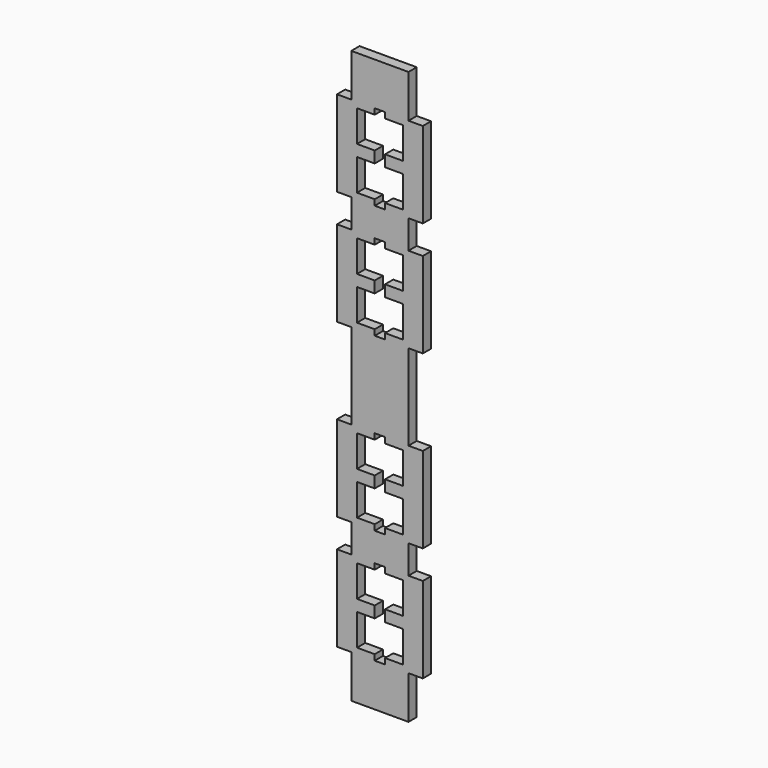
from build123d import *

# Parameters (mm, degrees)
F1_DEPTH = 18


with BuildPart() as f1:
    # F0 (on Front) → F1 (new body)
    with BuildSketch(Plane.XZ):
        Polygon((-50, 75), (-50, 0), (50, 0), (50, 75), (75, 75), (75, 225), (50, 225), (50, 275), (75, 275), (75, 425), (50, 425), (50, 575), (75, 575), (75, 725), (50, 725), (50, 775), (75, 775), (75, 925), (50, 925), (50, 1000), (-50, 1000), (-50, 925), (-75, 925), (-75, 775), (-50, 775), (-50, 725), (-75, 725), (-75, 575), (-50, 575), (-50, 425), (-75, 425), (-75, 275), (-50, 275), (-50, 225), (-75, 225), (-75, 75), align=None)
        Polygon((-9, 215), (-9, 225), (9, 225), (9, 215), (40, 215), (40, 160), (9, 160), (9, 140), (40, 140), (40, 85), (9, 85), (9, 75), (-9, 75), (-9, 85), (-40, 85), (-40, 140), (-9, 140), (-9, 160), (-40, 160), (-40, 215), align=None, mode=Mode.SUBTRACT)
        Polygon((-9, 415), (-9, 425), (9, 425), (9, 415), (40, 415), (40, 360), (9, 360), (9, 340), (40, 340), (40, 285), (9, 285), (9, 275), (-9, 275), (-9, 285), (-40, 285), (-40, 340), (-9, 340), (-9, 360), (-40, 360), (-40, 415), align=None, mode=Mode.SUBTRACT)
        Polygon((-9, 715), (-9, 725), (9, 725), (9, 715), (40, 715), (40, 660), (9, 660), (9, 640), (40, 640), (40, 585), (9, 585), (9, 575), (-9, 575), (-9, 585), (-40, 585), (-40, 640), (-9, 640), (-9, 660), (-40, 660), (-40, 715), align=None, mode=Mode.SUBTRACT)
        Polygon((-9, 915), (-9, 925), (9, 925), (9, 915), (40, 915), (40, 860), (9, 860), (9, 840), (40, 840), (40, 785), (9, 785), (9, 775), (-9, 775), (-9, 785), (-40, 785), (-40, 840), (-9, 840), (-9, 860), (-40, 860), (-40, 915), align=None, mode=Mode.SUBTRACT)
    extrude(amount=F1_DEPTH)


solid = f1.part
